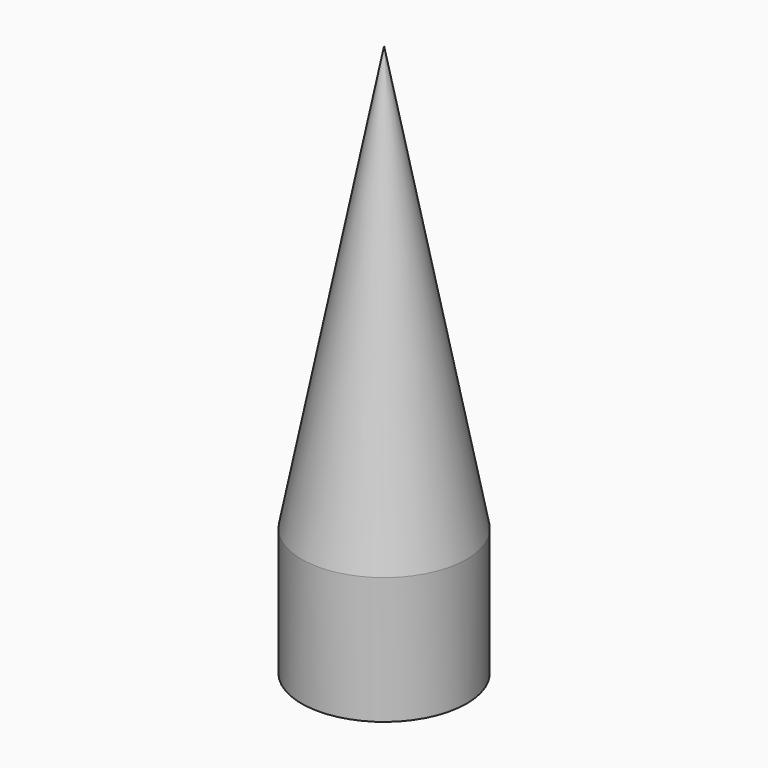
from build123d import *

# Parameters (mm, degrees)
F0_R     = 20.908708
F1_DEPTH = 139.7
F2_SIZE2 = 20.904358
F2_SIZE  = 107.5436


with BuildPart() as f1:
    # F0 (on Top) → F1 (new body)
    with BuildSketch(Plane.XY):
        Circle(F0_R)
    extrude(amount=F1_DEPTH)

    # F2
    f2_edges = [f1.edges().sort_by_distance(p)[0] for p in [
        (-20.908708, 0, 139.7),
    ]]
    chamfer(f2_edges, length=F2_SIZE, length2=F2_SIZE2)


solid = f1.part
